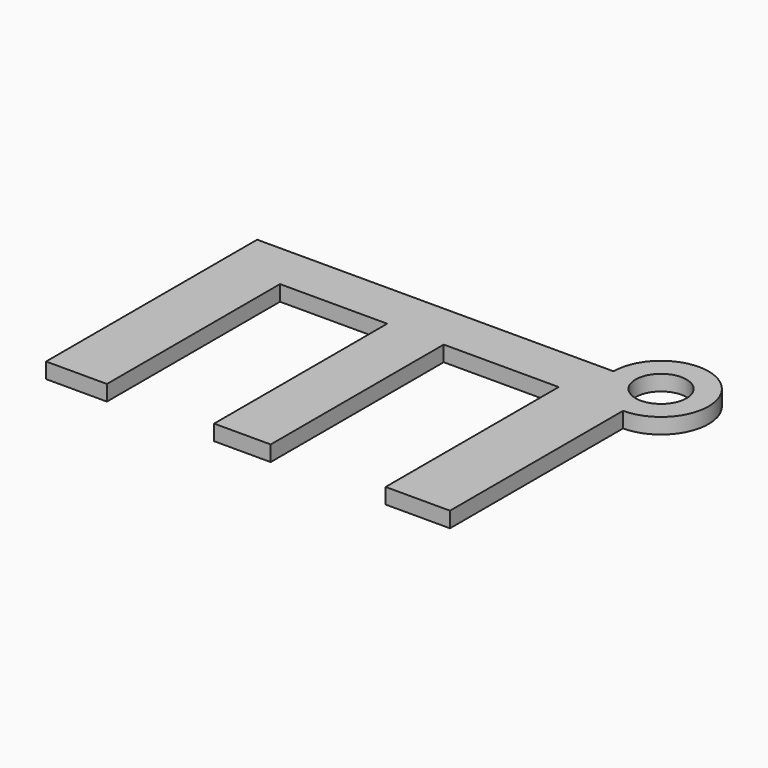
from build123d import *

# Parameters (mm, degrees)
F0_W     = 66.04
F0_H     = 43.139034
F1_DEPTH = 2.54
F2_W     = 18.795862
F2_H     = 35.368388
F3_DEPTH = 25.4
F4_W     = 17.531056
F4_H     = 35.368388
F5_DEPTH = 25.4
F6_R     = 7.770645
F7_DEPTH = 2.54
F8_R     = 4.163339
F9_DEPTH = 25.4


with BuildPart() as f1:
    # F0 (on Top) → F1 (new body)
    with BuildSketch(Plane.XY):
        with Locations((-0.843987, -0.339514)):
            Rectangle(F0_W, F0_H)
    extrude(amount=F1_DEPTH)

    # F2 (on face) → F3 (cut)
    with BuildSketch(Plane.XY.offset(2.54)):
        with Locations((12.255906, -4.224837)):
            Rectangle(F2_W, F2_H)
    extrude(amount=-F3_DEPTH, mode=Mode.SUBTRACT)

    # F4 (on face) → F5 (cut)
    with BuildSketch(Plane.XY.offset(2.54)):
        with Locations((-15.148921, -4.224837)):
            Rectangle(F4_W, F4_H)
    extrude(amount=-F5_DEPTH, mode=Mode.SUBTRACT)

    # F6 (on face) → F7 (join)
    with BuildSketch(Plane.XY.offset(2.54)):
        with Locations((32.176013, 21.230003)):
            Circle(F6_R)
    extrude(amount=-F7_DEPTH)

    # F8 (on face) → F9 (cut)
    with BuildSketch(Plane.XY.offset(2.54)):
        with Locations((32.176013, 21.230003)):
            Circle(F8_R)
    extrude(amount=-F9_DEPTH, mode=Mode.SUBTRACT)


solid = f1.part
